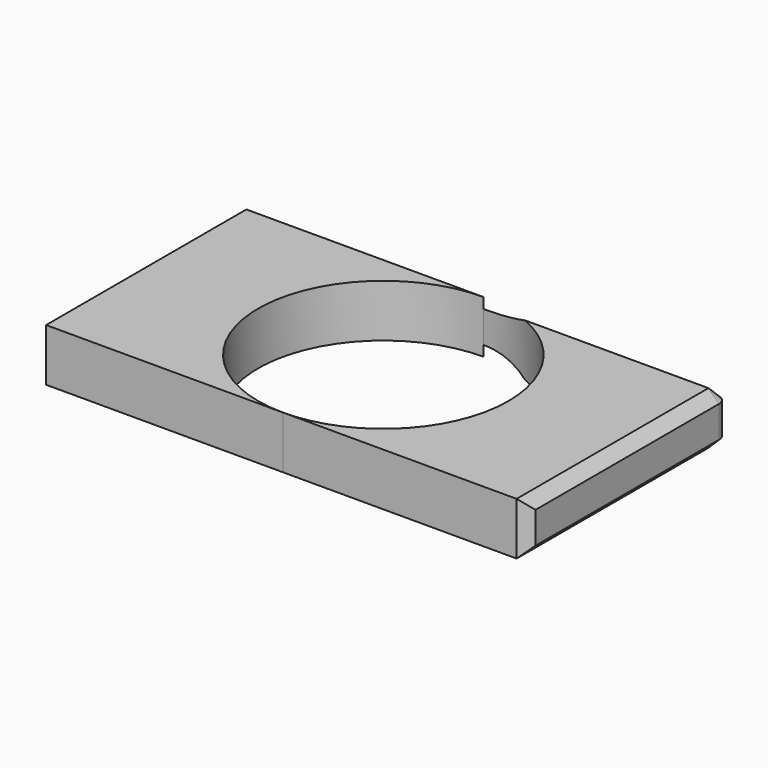
from build123d import *

# Parameters (mm, degrees)
F1_DEPTH = 25.4
F2_R     = 5.08
F3_SIZE  = 5.08


with BuildPart() as f1:
    # F0 (on Top) → F1 (new body)
    with BuildSketch(Plane.XY):
        with BuildLine():
            ThreePointArc((60.459498316, 0), (42.7513212318, -42.7513212611), (-4.14e-08, -60.459498316))
            Line((-4.14e-08, -60.459498316), (117.8293004632, -60.459498316))
            Line((117.8293004632, -60.459498316), (117.8293004632, 60.459498316))
            Line((117.8293004632, 60.459498316), (7.15e-08, 60.459498316))
            ThreePointArc((7.15e-08, 60.459498316), (42.7513212717, 42.7513212211), (60.459498316, 0))
        make_face()
    extrude(amount=F1_DEPTH)

    # F2
    f2_edges = [f1.edges().sort_by_distance(p)[0] for p in [
        (117.8293, 60.459498, 12.7),
    ]]
    fillet(f2_edges, radius=F2_R)

    # F3
    f3_edges = [f1.edges().sort_by_distance(p)[0] for p in [
        (117.8293, -2.54, 0),
        (117.8293, 55.379498, 12.7),
        (117.8293, -60.459498, 12.7),
        (117.8293, -2.54, 25.4),
    ]]
    chamfer(f3_edges, length=F3_SIZE)


with BuildPart() as f1b:
    # F0 (on Top) → F1, piece 2 (new body)
    with BuildSketch(Plane.XY):
        with BuildLine():
            Line((-114.5003661513, 60.459498316), (-114.5003661513, -60.459498316))
            Line((-114.5003661513, -60.459498316), (-4.14e-08, -60.459498316))
            ThreePointArc((-4.14e-08, -60.459498316), (-60.459498316, 5.65e-08), (7.15e-08, 60.459498316))
            Line((7.15e-08, 60.459498316), (-114.5003661513, 60.459498316))
        make_face()
    extrude(amount=F1_DEPTH)


solid = Compound([f1.part, f1b.part])
